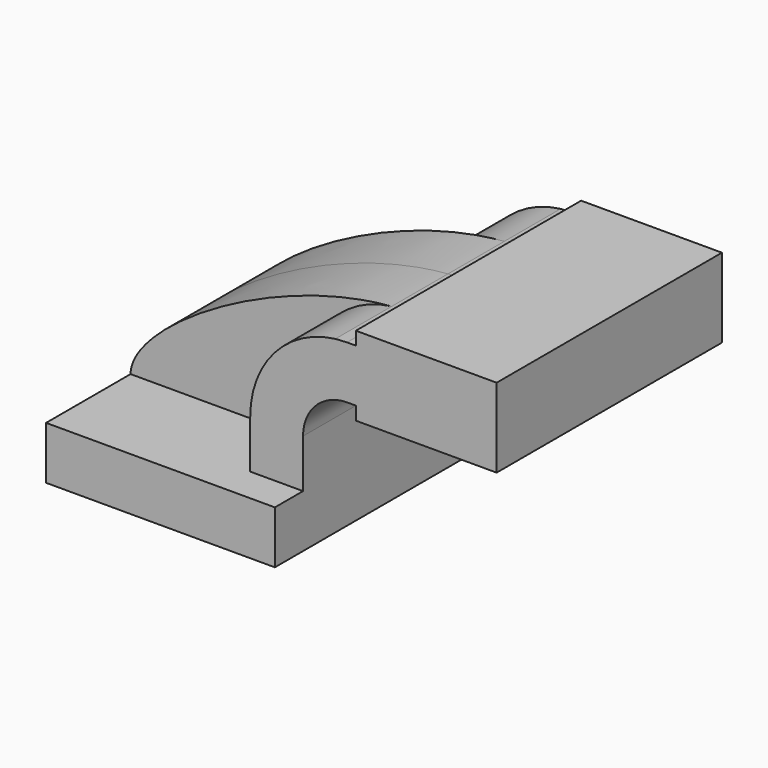
from build123d import *

# Parameters (mm, degrees)
F1_DEPTH = 63.5
F2_DEPTH = 25.4
F0_W     = 25.3307413936
F0_H     = 19.05
F3_DEPTH = 50.8


with BuildPart() as f1:
    # F0 (on Front) → F1 (new body, symmetric)
    with BuildSketch(Plane.XZ):
        Polygon((-41.275, -9.525), (41.275, -9.525), (41.275, 9.525), (22.225, 9.525), (-41.275, 9.525), align=None)
    extrude(amount=F1_DEPTH, both=True)

    # F0 (on Front) → F2 (join, symmetric)
    with BuildSketch(Plane.XZ):
        with BuildLine():
            add(Edge.make_bspline(
                [(-41.275, 9.525), (-41.1319843278, 26.4440384857), (9.9134722481, 58.1405185942), (52.9354553425, 61.6699741315)],
                knots=[0, 0, 0, 0, 107.9558196003, 107.9558196003, 107.9558196003, 107.9558196003], degree=3))
            Line((-41.275, 9.525), (22.225, 9.525))
            Line((22.225, 9.525), (22.225, 27.0002))
            ThreePointArc((22.225, 27.0002), (31.0066586187, 50.1579487338), (52.9354553425, 61.6699741315))
        make_face()
    extrude(amount=F2_DEPTH, both=True)

    # F0 (on Front) → F3 (join, symmetric)
    with BuildSketch(Plane.XZ):
        with BuildLine():
            Line((22.225, 9.525), (41.275, 9.525))
            Line((41.275, 9.525), (41.275, 27.0002))
            ThreePointArc((41.275, 27.0002), (45.9246798487, 38.2255201513), (57.15, 42.8752))
            Line((57.15, 42.8752), (60.325, 42.8752))
            Line((60.325, 42.8752), (60.325, 61.9252))
            Line((60.325, 61.9252), (57.15, 61.9252))
            add(Edge.make_bspline(
                [(52.9354553425, 61.6699741315), (54.3496711259, 61.7859941605), (55.7552170324, 61.8715779158), (57.15, 61.9252)],
                knots=[107.9558196003, 107.9558196003, 107.9558196003, 107.9558196003, 111.5045361635, 111.5045361635, 111.5045361635, 111.5045361635], degree=3))
            ThreePointArc((52.9354553425, 61.6699741315), (31.0066586187, 50.1579487338), (22.225, 27.0002))
            Line((22.225, 27.0002), (22.225, 9.525))
        make_face()
        with Locations((72.9903706968, 52.4002)):
            Rectangle(F0_W, F0_H)
        Polygon((85.6557413936, 42.8752), (60.325, 42.8752), (60.325, 38.1), (111.125, 38.1), (111.125, 66.675), (60.325, 66.675), (60.325, 61.9252), (85.6557413936, 61.9252), align=None)
    extrude(amount=F3_DEPTH, both=True)


solid = f1.part
